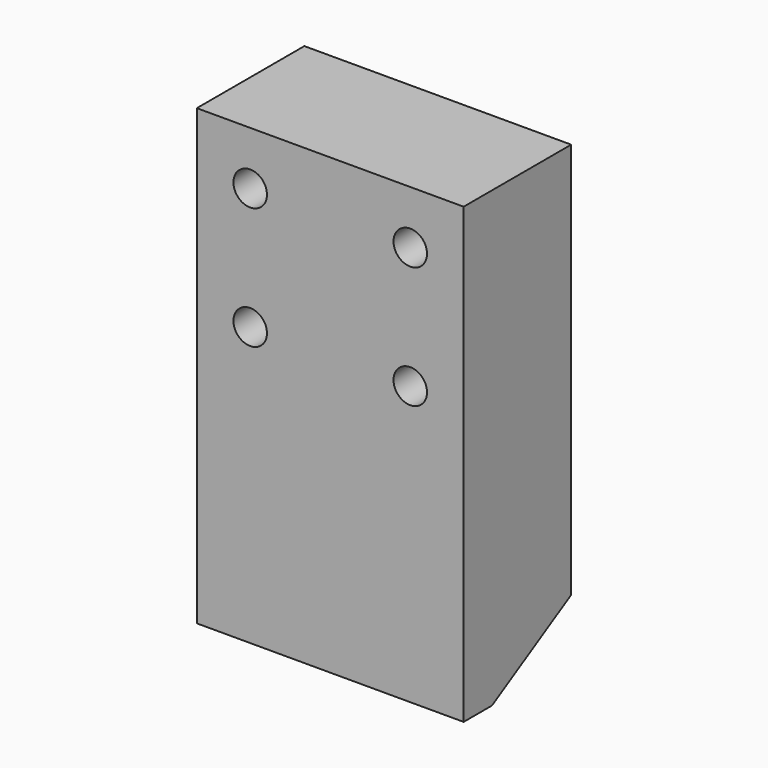
from build123d import *

# Parameters (mm, degrees)
PAD_DEPTH      = 17.5
SKETCH001_R    = 2.2
HOLE_DEPTH     = 17.632397
SKETCH002_R    = 1.75
HOLE001_DEPTH  = 13.948494
HOLE001_TIPS_R = 1.75


with BuildPart() as part:
    # Sketch → Pad (new body, symmetric)
    with BuildSketch(Plane.YZ):
        Polygon((30, 20), (30, 79.5), (47.631397, 79.5), (47.631397, 27.5), (34.641016, 20), align=None)
    extrude(amount=PAD_DEPTH, both=True)

    # Sketch001 (on Face3 of Pad) → Hole (cut, through all)
    with BuildSketch(Plane.ZX.offset(47.631397)):
        with Locations((72.5, 10.5)):
            Circle(SKETCH001_R)
        with Locations((56.5, 10.5)):
            Circle(SKETCH001_R)
        with Locations((56.5, -10.5)):
            Circle(SKETCH001_R)
        with Locations((72.5, -10.5)):
            Circle(SKETCH001_R)
    extrude(amount=-HOLE_DEPTH, mode=Mode.SUBTRACT)

    # Sketch002 (on Face11 of Hole) → Hole001 (cut)
    with BuildSketch(Plane.ZX.offset(47.631397)):
        with Locations((37.5, 0)):
            Circle(SKETCH002_R)
    extrude(amount=-HOLE001_DEPTH, mode=Mode.SUBTRACT)

    # Hole001 tips → Hole001 tip 1 section 0
    with BuildSketch(Plane.ZX.offset(33.682903), mode=Mode.PRIVATE) as hole001_tip_1_s0:
        with Locations((37.5, 0)):
            Circle(HOLE001_TIPS_R)
    loft([hole001_tip_1_s0.sketch, Vertex(0, 32.631397, 37.5)], mode=Mode.SUBTRACT)


solid = part.part
